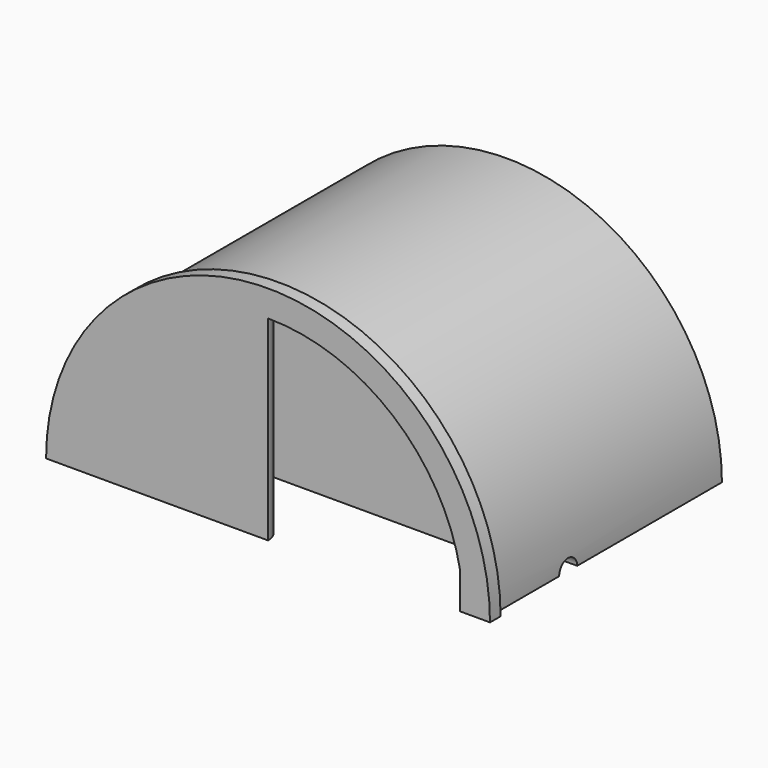
from build123d import *

# Parameters (mm, degrees)
SKETCH015_W     = 65
SKETCH015_H     = 55
PAD004_DEPTH    = 32.5
POCKET006_DEPTH = 32.501
PAD005_DEPTH    = 55
SKETCH018_W     = 65
SKETCH018_H     = 10
POCKET007_DEPTH = 32.501
SKETCH019_R     = 50
SKETCH019_R_2   = 32.5
POCKET008_DEPTH = 45.001
PAD006_DEPTH    = 2
SKETCH027_R     = 1.7
POCKET013_DEPTH = 10


with BuildPart() as part:
    # Sketch015 → Pad004 (new body)
    with BuildSketch(Plane.XY):
        with Locations((0, 17.5)):
            Rectangle(SKETCH015_W, SKETCH015_H)
    extrude(amount=PAD004_DEPTH)

    # Sketch016 (on Face6 of Pad004) → Pocket006 (cut, through all)
    with BuildSketch(Plane.XY.offset(32.5)):
        with BuildLine():
            ThreePointArc((-29, 45), (-26.071068, 37.928932), (-19, 35))
            Line((-19, 35), (11.5, 35))
            ThreePointArc((11.5, 29), (14.5, 32), (11.5, 35))
            Line((-19, 29), (11.5, 29))
            ThreePointArc((-19, 29), (-26.071068, 26.071068), (-29, 19))
            Line((-29, 13), (-29, 19))
            ThreePointArc((-29, 13), (-26.071068, 5.928932), (-19, 3))
            Line((-19, 3), (-3, 3))
            ThreePointArc((0, 0), (-0.87868, 2.12132), (-3, 3))
            Line((29, 0), (0, 0))
            Line((29, 3), (29, 0))
            ThreePointArc((29, 3), (26.071068, 10.071068), (19, 13))
            Line((19, 13), (-11.5, 13))
            ThreePointArc((-11.5, 19), (-14.5, 16), (-11.5, 13))
            Line((-11.5, 19), (19, 19))
            ThreePointArc((19, 19), (26.071068, 21.928932), (29, 29))
            Line((29, 45), (29, 29))
            Line((-29, 45), (29, 45))
        make_face()
    extrude(amount=-POCKET006_DEPTH, mode=Mode.SUBTRACT)

    # Sketch017 (on Face1 of Pocket006) → Pad005 (join)
    with BuildSketch(Plane.XZ.offset(10)):
        with BuildLine():
            ThreePointArc((32.5, 0), (0, 32.5), (-32.5, 0))
            Line((-32.5, 0), (-29.5, 0))
            ThreePointArc((29.5, 0), (0, 29.5), (-29.5, 0))
            Line((29.5, 0), (32.5, 0))
        make_face()
    extrude(amount=-PAD005_DEPTH)

    # Sketch018 (on Face19 of Pad005) → Pocket007 (cut, through all)
    with BuildSketch(Plane(origin=(0, 0, 0), x_dir=(1, 0, 0), z_dir=(0, 0, -1))):
        with Locations((0, 5)):
            Rectangle(SKETCH018_W, SKETCH018_H)
    extrude(amount=-POCKET007_DEPTH, mode=Mode.SUBTRACT)

    # Sketch019 (on Face13 of Pocket007) → Pocket008 (cut, through all)
    with BuildSketch(Plane.XZ):
        Circle(SKETCH019_R)
        Circle(SKETCH019_R_2, mode=Mode.SUBTRACT)
    extrude(amount=-POCKET008_DEPTH, mode=Mode.SUBTRACT)

    # Sketch020 (on Face13 of Pocket008) → Pad006 (join)
    with BuildSketch(Plane.XZ):
        with BuildLine():
            ThreePointArc((32.5, 0), (0, 32.5), (-32.5, 0))
            Line((-33.5, 0), (-32.5, 0))
            ThreePointArc((33.5, 0), (0, 33.5), (-33.5, 0))
            Line((32.5, 0), (33.5, 0))
        make_face()
    extrude(amount=-PAD006_DEPTH)

    # Sketch027 (on DatumPlane) → Pocket013 (cut)
    with BuildSketch(Plane.YZ.offset(34)):
        with Locations((16, 0)):
            Circle(SKETCH027_R)
    extrude(amount=-POCKET013_DEPTH, mode=Mode.SUBTRACT)


with BuildPart() as part_1:
    # Body003 placement: moved
    add(part.part.moved(Location((0, -25, 0))))


solid = part_1.part
